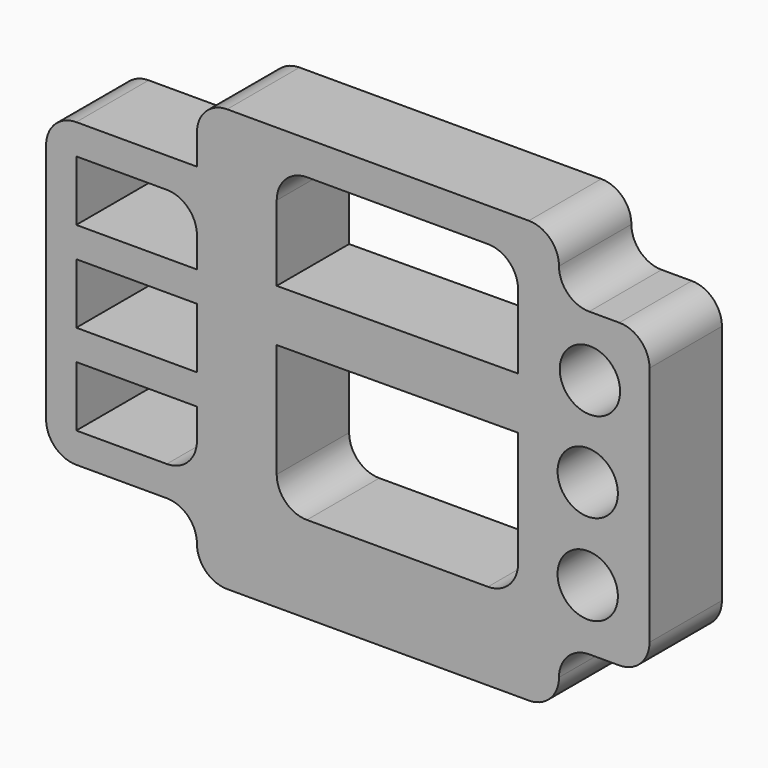
from build123d import *

# Parameters (mm, degrees)
F0_R     = 10.004381
F0_W     = 40
F0_H     = 20
F0_R_2   = 10
F1_DEPTH = 30


with BuildPart() as f1:
    # F0 (on Front) → F1 (new body)
    with BuildSketch(Plane.XZ):
        with BuildLine():
            Line((56.085652, 60), (-43.914348, 60))
            ThreePointArc((-43.914348, 60), (-50.985416, 57.071068), (-53.914348, 50))
            Line((-53.914348, 50), (-53.914348, 40))
            Line((-53.914348, 40), (-93.914348, 40))
            ThreePointArc((-93.914348, 40), (-100.985416, 37.071068), (-103.914348, 30))
            Line((-103.914348, 30), (-103.914348, -50))
            ThreePointArc((-103.914348, -50), (-100.985416, -57.071068), (-93.914348, -60))
            Line((-93.914348, -60), (-63.914348, -60))
            ThreePointArc((-63.914348, -60), (-56.843281, -62.928932), (-53.914348, -70))
            ThreePointArc((-53.914348, -70), (-50.985416, -77.071068), (-43.914348, -80))
            Line((-43.914348, -80), (56.085652, -80))
            ThreePointArc((56.085652, -80), (63.156719, -77.071068), (66.085652, -70))
            ThreePointArc((66.085652, -70), (69.014584, -62.928932), (76.085652, -60))
            Line((76.085652, -60), (86.085652, -60))
            ThreePointArc((86.085652, -60), (93.156719, -57.071068), (96.085652, -50))
            Line((96.085652, -50), (96.085652, 30))
            ThreePointArc((96.085652, 30), (93.156719, 37.071068), (86.085652, 40))
            Line((86.085652, 40), (76.085652, 40))
            ThreePointArc((76.085652, 40), (69.014584, 42.928932), (66.085652, 50))
            ThreePointArc((66.085652, 50), (63.156719, 57.071068), (56.085652, 60))
        make_face()
        with BuildLine():
            Line((-93.914348, -50), (-93.914348, -30))
            Line((-93.914348, -30), (-53.914348, -30))
            Line((-53.914348, -30), (-53.914348, -40))
            ThreePointArc((-53.914348, -40), (-56.843281, -47.071068), (-63.914348, -50))
            Line((-63.914348, -50), (-93.914348, -50))
        make_face(mode=Mode.SUBTRACT)
        with BuildLine():
            ThreePointArc((52.524198, -41.220607), (49.595266, -48.291675), (42.524198, -51.220607))
            Line((42.524198, -51.220607), (-17.475802, -51.220607))
            ThreePointArc((-17.475802, -51.220607), (-24.54687, -48.291675), (-27.475802, -41.220607))
            Line((-27.475802, -41.220607), (-27.475802, -3.443976))
            Line((-27.475802, -3.443976), (52.524198, -3.022756))
            Line((52.524198, -3.022756), (52.524198, -41.220607))
        make_face(mode=Mode.SUBTRACT)
        with Locations((75.607582, -39.995619)):
            Circle(F0_R, mode=Mode.SUBTRACT)
        with Locations((-73.914348, -10)):
            Rectangle(F0_W, F0_H, mode=Mode.SUBTRACT)
        with BuildLine():
            Line((-93.914348, 10), (-93.914348, 30))
            Line((-93.914348, 30), (-63.914348, 30))
            ThreePointArc((-63.914348, 30), (-56.843281, 27.071068), (-53.914348, 20))
            Line((-53.914348, 20), (-53.914348, 10))
            Line((-53.914348, 10), (-93.914348, 10))
        make_face(mode=Mode.SUBTRACT)
        with Locations((75.607582, -9.991237)):
            Circle(F0_R_2, mode=Mode.SUBTRACT)
        with Locations((76.332619, 20)):
            Circle(F0_R_2, mode=Mode.SUBTRACT)
        with BuildLine():
            ThreePointArc((-27.475802, 38.779393), (-24.54687, 45.850461), (-17.475802, 48.779393))
            Line((-17.475802, 48.779393), (42.524198, 48.779393))
            ThreePointArc((42.524198, 48.779393), (49.595266, 45.850461), (52.524198, 38.779393))
            Line((52.524198, 38.779393), (52.524198, 14.244914))
            Line((52.524198, 14.244914), (-27.475802, 13.826031))
            Line((-27.475802, 13.826031), (-27.475802, 38.779393))
        make_face(mode=Mode.SUBTRACT)
    extrude(amount=F1_DEPTH)


solid = f1.part
